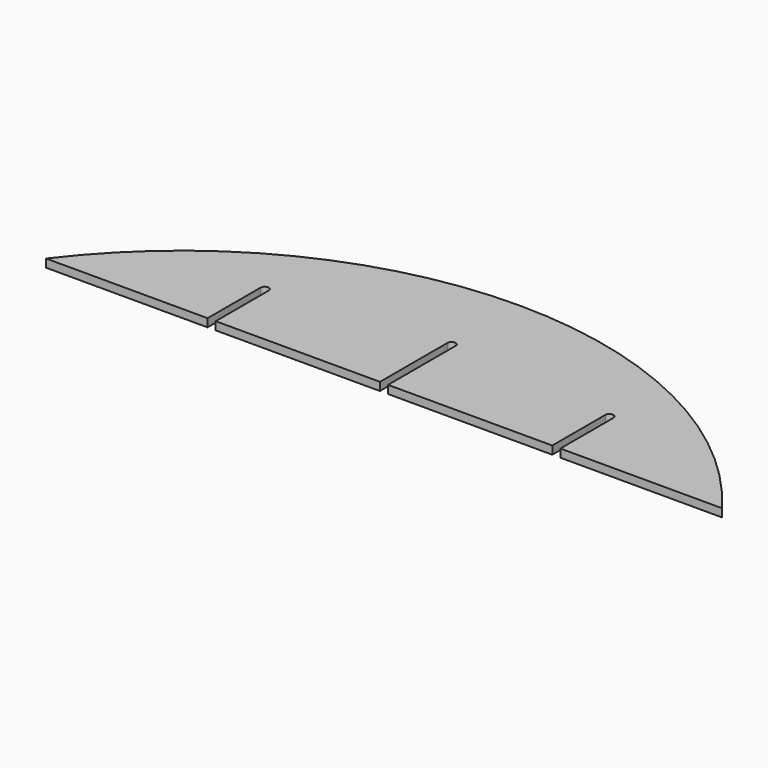
from build123d import *

# Parameters (mm, degrees)
F1_DEPTH = 12


with BuildPart() as f1:
    # F0 (on Top) → F1 (new body)
    with BuildSketch(Plane.XY):
        with BuildLine():
            ThreePointArc((1000, 0), (500, 250), (0, 0))
            Line((0, 0), (239, 0))
            Line((239, 0), (239, 98))
            ThreePointArc((239, 98), (245, 104), (251, 98))
            Line((251, 98), (251, 0))
            Line((251, 0), (494, 0))
            Line((494, 0), (494, 125))
            ThreePointArc((494, 125), (500, 131), (506, 125))
            Line((506, 125), (506, 0))
            Line((506, 0), (749, 0))
            Line((749, 0), (749, 98))
            ThreePointArc((749, 98), (755, 104), (761, 98))
            Line((761, 98), (761, 0))
            Line((761, 0), (1000, 0))
        make_face()
    extrude(amount=F1_DEPTH)


solid = f1.part
